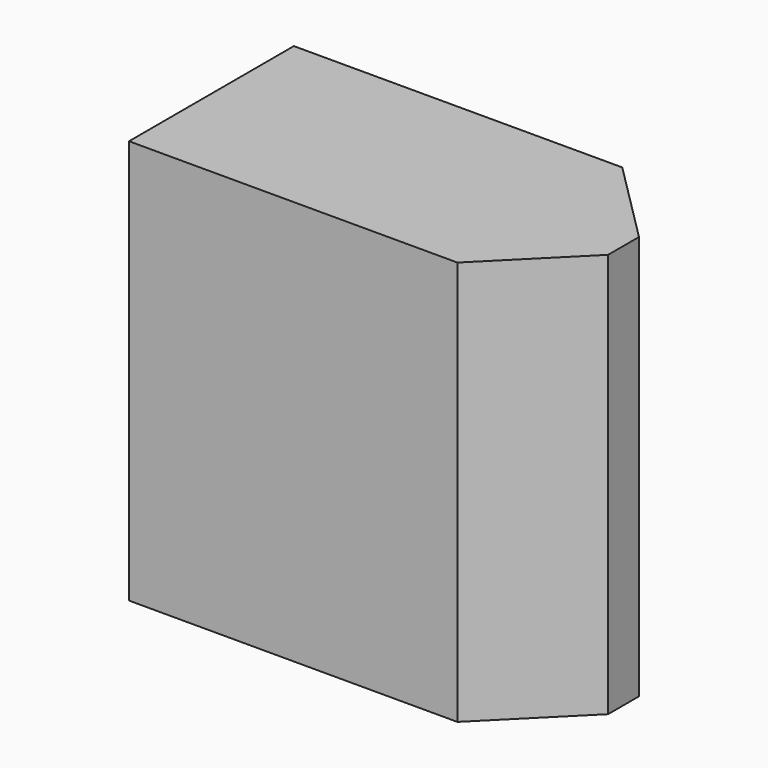
from build123d import *

# Parameters (mm, degrees)
PAD_DEPTH = 15.7


with BuildPart() as part:
    # Sketch → Pad (new body)
    with BuildSketch(Plane.XY):
        Polygon((0, 0), (0, 8), (12.75, 8), (16, 4.75), (16, 3.25), (12.75, 0), align=None)
    extrude(amount=PAD_DEPTH)


solid = part.part
